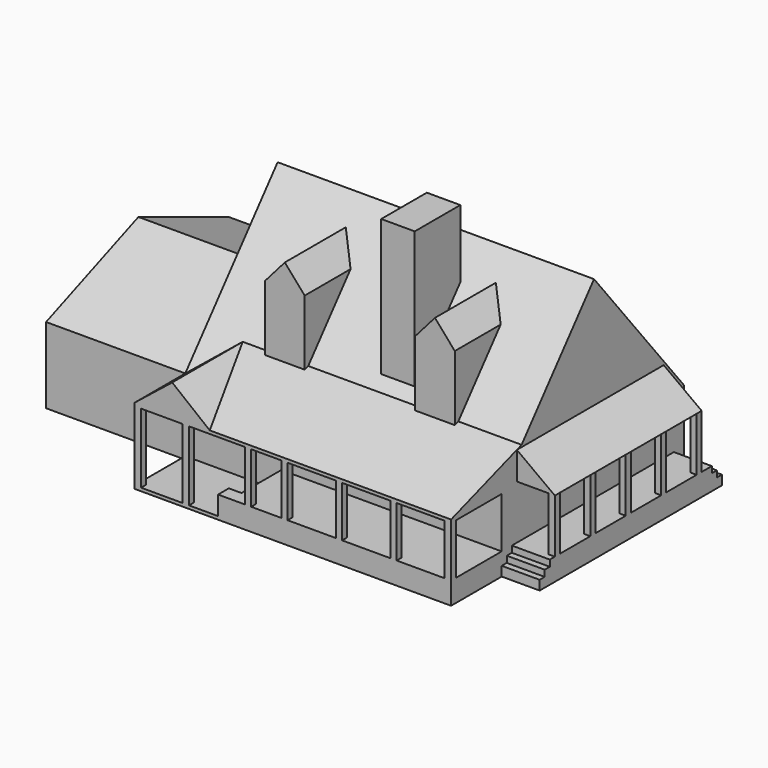
from build123d import *

# Parameters (mm, degrees)
F0_W       = 72
F0_H       = 36
F1_DEPTH   = 12
F3_DEPTH   = 50
F5_DEPTH   = 22
F6_W       = 50
F6_H       = 0.5
F7_DEPTH   = 10
F8_DEPTH   = 10
F13_W      = 1
F13_H      = 10
F14_DEPTH  = 1
F15_DEPTH  = 2
F13_W_2    = 34.824172408
F16_DEPTH  = 3
F17_W      = 1
F17_H      = 1
F18_DEPTH  = 8
F19_DEPTH  = 8
F20_DEPTH  = 8
F21_DEPTH  = 8
F22_DEPTH  = 8
F13_H_2    = 1
F23_DEPTH  = 11
F24_DEPTH  = 11
F25_W      = 1
F25_H      = 2.1276606619
F27_DEPTH  = 2
F26_W      = 1
F26_H      = 2.1276606619
F28_DEPTH  = 1
F29_W      = 36
F29_H      = 3.5
F30_DEPTH  = 6
F31_W      = 6
F31_H      = 1
F32_DEPTH  = 2
F33_DEPTH  = 1
F34_DEPTH  = 2
F35_DEPTH  = 1
F37_START  = -4
F37_DEPTH  = 29
F38_W      = 1
F38_H      = 1
F39_DEPTH  = 8.5
F40_DEPTH  = 8.5
F41_DEPTH  = 8.5
F42_DEPTH  = 8.5
F43_DEPTH  = 8.5
F45_W      = 6.2820501626
F45_H      = 5.7211536914
F46_FACE_W = 6.2820501626
F46_FACE_H = 4.3090674287
F47_FACE_W = 6.2820501626
F47_FACE_H = 4.3090674287
F51_W      = 5.2950629033
F51_H      = 9.0086418204


with BuildPart() as f1:
    # F0 (on Top) → F1 (new body)
    with BuildSketch(Plane.XY):
        with Locations((-17.9916281849, -0.2358976454)):
            Rectangle(F0_W, F0_H)
    extrude(amount=F1_DEPTH)

    # F2 (on face) → F3 (join)
    with BuildSketch(Plane.YZ.offset(18.0083718151)):
        Polygon((-18.2358976454, 12), (17.7641023546, 12), (0, 33.9695699513), align=None)
    extrude(amount=-F3_DEPTH)

    # F4 (on face) → F5 (join, through all)
    with BuildSketch(Plane(origin=(-53.9916281849, 0, 0), x_dir=(0, -1, 0), z_dir=(-1, 0, 0))):
        Polygon((0, 19.2015562207), (-17.7641023546, 12), (18.2358976454, 12), align=None)
    extrude(amount=-F5_DEPTH)

    # F6 (on face) → F7 (join)
    with BuildSketch(Plane.XZ.offset(18.2358976454)):
        with Locations((-6.9916281849, 11.75)):
            Rectangle(F6_W, F6_H)
    extrude(amount=F7_DEPTH)

    # F6 (on face) → F8 (join)
    with BuildSketch(Plane.XZ.offset(18.2358976454)):
        with Locations((-6.9916281849, 0.25)):
            Rectangle(F6_W, F6_H)
    extrude(amount=F8_DEPTH)

    # F9 (on face) → F10 (join, up to the next surface of F1)
    with BuildSketch(Plane.XZ.offset(28.2358976454)):
        Polygon((-26.0598938912, 16.733692959), (-31.9916281849, 12), (-20.1281595975, 12), align=None)
    extrude(until=Until.NEXT, dir=(0, 1, 0))

    # F11 (on face) → F12 (join, up to the next surface of F1)
    with BuildSketch(Plane.YZ.offset(18.0083718151)):
        Polygon((-14.3066837157, 16.733692959), (-28.2358976454, 12), (-18.2358976454, 12), align=None)
    extrude(until=Until.NEXT, dir=(-1, 0, 0))

    # F13 (on face) → F14 (join)
    with BuildSketch(Plane.XY.offset(0.5)):
        with Locations((-18.3158005929, -23.2358976454)):
            Rectangle(F13_W, F13_H)
    extrude(amount=F14_DEPTH)

    # F13 (on face) → F15 (join)
    with BuildSketch(Plane.XY.offset(0.5)):
        with Locations((-17.3158005929, -23.2358976454)):
            Rectangle(F13_W, F13_H)
    extrude(amount=F15_DEPTH)

    # F13 (on face) → F16 (join)
    with BuildSketch(Plane.XY.offset(0.5)):
        with Locations((0.5962856111, -23.2358976454)):
            Rectangle(F13_W_2, F13_H)
    extrude(amount=F16_DEPTH)

    # F17 (on face) → F18 (join, through all)
    with BuildSketch(Plane.XY.offset(3.5)):
        with Locations((-14.0816532895, -27.7358976454)):
            Rectangle(F17_W, F17_H)
    extrude(amount=F18_DEPTH)

    # F17 (on face) → F19 (join, through all)
    with BuildSketch(Plane.XY.offset(3.5)):
        with Locations((-8.3204968274, -27.7358976454)):
            Rectangle(F17_W, F17_H)
    extrude(amount=F19_DEPTH)

    # F17 (on face) → F20 (join, through all)
    with BuildSketch(Plane.XY.offset(3.5)):
        with Locations((0.2891260535, -27.7358976454)):
            Rectangle(F17_W, F17_H)
    extrude(amount=F20_DEPTH)

    # F17 (on face) → F21 (join, through all)
    with BuildSketch(Plane.XY.offset(3.5)):
        with Locations((8.8987489343, -27.7358976454)):
            Rectangle(F17_W, F17_H)
    extrude(amount=F21_DEPTH)

    # F17 (on face) → F22 (join, through all)
    with BuildSketch(Plane.XY.offset(3.5)):
        with Locations((17.5083718151, -27.7358976454)):
            Rectangle(F17_W, F17_H)
    extrude(amount=F22_DEPTH)

    # F13 (on face) → F23 (join, through all)
    with BuildSketch(Plane.XY.offset(0.5)):
        with Locations((-31.4916281849, -27.7358976454)):
            Rectangle(F13_W, F13_H_2)
    extrude(amount=F23_DEPTH)

    # F13 (on face) → F24 (join, through all)
    with BuildSketch(Plane.XY.offset(0.5)):
        with Locations((-23.9017895311, -27.7358976454)):
            Rectangle(F13_W, F13_H_2)
    extrude(amount=F24_DEPTH)

    # F25 (on face) → F27 (join)
    with BuildSketch(Plane.XY.offset(1.5)):
        with Locations((-18.3158005929, -27.1720673144)):
            Rectangle(F25_W, F25_H)
    extrude(amount=F27_DEPTH)

    # F26 (on face) → F28 (join)
    with BuildSketch(Plane.XY.offset(2.5)):
        with Locations((-17.3158005929, -27.1720673144)):
            Rectangle(F26_W, F26_H)
    extrude(amount=F28_DEPTH)

    # F29 (on face) → F30 (join)
    with BuildSketch(Plane.YZ.offset(18.0083718151)):
        with Locations((-0.2358976454, 1.75)):
            Rectangle(F29_W, F29_H)
    extrude(amount=F30_DEPTH)

    # F31 (on face) → F32 (cut)
    with BuildSketch(Plane.XY.offset(3.5)):
        with Locations((21.0083718151, -17.7358976454)):
            Rectangle(F31_W, F31_H)
    extrude(amount=-F32_DEPTH, mode=Mode.SUBTRACT)

    # F31 (on face) → F33 (cut)
    with BuildSketch(Plane.XY.offset(3.5)):
        with Locations((21.0083718151, -16.7358976454)):
            Rectangle(F31_W, F31_H)
    extrude(amount=-F33_DEPTH, mode=Mode.SUBTRACT)

    # F31 (on face) → F34 (cut)
    with BuildSketch(Plane.XY.offset(3.5)):
        with Locations((21.0083718151, 17.2641023546)):
            Rectangle(F31_W, F31_H)
    extrude(amount=-F34_DEPTH, mode=Mode.SUBTRACT)

    # F31 (on face) → F35 (cut)
    with BuildSketch(Plane.XY.offset(3.5)):
        with Locations((21.0083718151, 16.2641023546)):
            Rectangle(F31_W, F31_H)
    extrude(amount=-F35_DEPTH, mode=Mode.SUBTRACT)

    # F36 (on face) → F37 (join)
    with BuildSketch(Plane(origin=(0, 17.7641023546, 0), x_dir=(-1, 0, 0), z_dir=(0, 1, 0)).offset(F37_START)):
        Polygon((-18.0083718151, 12), (-18.0083718151, 16.4085291326), (-24.0083718151, 12), align=None)
    extrude(amount=-F37_DEPTH)

    # F38 (on face) → F39 (join, through all)
    with BuildSketch(Plane.XY.offset(3.5)):
        with Locations((23.5083718151, -14.7358976454)):
            Rectangle(F38_W, F38_H)
    extrude(amount=F39_DEPTH)

    # F38 (on face) → F40 (join, through all)
    with BuildSketch(Plane.XY.offset(3.5)):
        with Locations((23.5083718151, -7.7358976454)):
            Rectangle(F38_W, F38_H)
    extrude(amount=F40_DEPTH)

    # F38 (on face) → F41 (join, through all)
    with BuildSketch(Plane.XY.offset(3.5)):
        with Locations((23.5083718151, -0.7358976454)):
            Rectangle(F38_W, F38_H)
    extrude(amount=F41_DEPTH)

    # F38 (on face) → F42 (join, through all)
    with BuildSketch(Plane.XY.offset(3.5)):
        with Locations((23.5083718151, 6.2641023546)):
            Rectangle(F38_W, F38_H)
    extrude(amount=F42_DEPTH)

    # F38 (on face) → F43 (join, through all)
    with BuildSketch(Plane.XY.offset(3.5)):
        with Locations((23.5083718151, 13.2641023546)):
            Rectangle(F38_W, F38_H)
    extrude(amount=F43_DEPTH)

    # F45 (on offset) → F46 (join, up to the next surface of F1)
    with BuildSketch(Plane.XZ.offset(15)):
        with Locations((-18.8506031036, 23.9503206685)):
            Rectangle(F45_W, F45_H)
        Polygon((-18.8506031036, 30.4006431252), (-21.9916281849, 26.8108975142), (-15.7095780224, 26.8108975142), align=None)
    extrude(until=Until.NEXT, dir=(0, 1, 0))

    # F45 (on offset) → F47 (join, up to the next surface of F1)
    with BuildSketch(Plane.XZ.offset(15)):
        with Locations((4.8673467338, 23.9503206685)):
            Rectangle(F45_W, F45_H)
        Polygon((4.8673467338, 30.4006431252), (1.7263216525, 26.8108975142), (8.0083718151, 26.8108975142), align=None)
    extrude(until=Until.NEXT, dir=(0, 1, 0))

    # F46_face (on face) → F48 (join, up to the next surface of F1)
    with BuildSketch(Plane(origin=(-18.8506031036, -12.8454662856, 21.0897438228), x_dir=(1, 0, 0), z_dir=(0, 0, -1))):
        Rectangle(F46_FACE_W, F46_FACE_H)
    extrude(until=Until.NEXT)

    # F47_face (on face) → F49 (join, up to the next surface of F1)
    with BuildSketch(Plane(origin=(4.8673467338, -12.8454662856, 21.0897438228), x_dir=(1, 0, 0), z_dir=(0, 0, -1))):
        Rectangle(F47_FACE_W, F47_FACE_H)
    extrude(until=Until.NEXT)

    # F51 (on offset) → F52 (join, up to the next surface of F1)
    with BuildSketch(Plane.XY.offset(40)):
        with Locations((-2.6475314517, -8.4023226518)):
            Rectangle(F51_W, F51_H)
    extrude(until=Until.NEXT, dir=(0, 0, -1))


solid = f1.part
